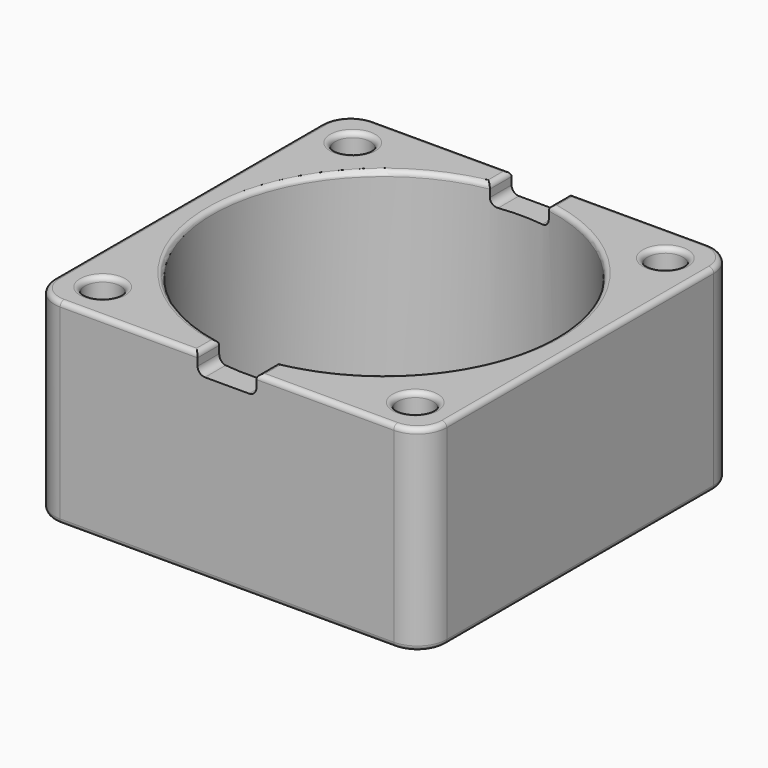
from build123d import *

# Parameters (mm, degrees)
SKETCH008_W     = 40
SKETCH008_H     = 40
SKETCH008_R     = 1.8
SKETCH008_R_2   = 17.5
PAD006_DEPTH    = 20
SKETCH011_W     = 6
SKETCH011_H     = 42
POCKET002_DEPTH = 2
FILLET002_R     = 3
FILLET003_R     = 0.5
FILLET004_R     = 0.75


with BuildPart() as part:
    # Sketch008 → Pad006 (new body)
    with BuildSketch(Plane.XY):
        Rectangle(SKETCH008_W, SKETCH008_H)
        with Locations((-15.92758, 15.92758)):
            Circle(SKETCH008_R, mode=Mode.SUBTRACT)
        with Locations((15.92758, -15.92758)):
            Circle(SKETCH008_R, mode=Mode.SUBTRACT)
        with Locations((15.92758, 15.92758)):
            Circle(SKETCH008_R, mode=Mode.SUBTRACT)
        with Locations((-15.92758, -15.92758)):
            Circle(SKETCH008_R, mode=Mode.SUBTRACT)
        Circle(SKETCH008_R_2, mode=Mode.SUBTRACT)
    extrude(amount=-PAD006_DEPTH)

    # Sketch011 → Pocket002 (cut)
    with BuildSketch(Plane.XY):
        Rectangle(SKETCH011_W, SKETCH011_H)
    extrude(amount=-POCKET002_DEPTH, mode=Mode.SUBTRACT)

    # Fillet002
    fillet002_edges = [part.edges().sort_by_distance(p)[0] for p in [
        (-20, -20, -10),
        (-20, 20, -10),
        (20, -20, -10),
        (20, 20, -10),
    ]]
    fillet(fillet002_edges, radius=FILLET002_R)

    # Fillet003
    fillet003_edges = [part.edges().sort_by_distance(p)[0] for p in [
        (-20, 0, -20),
        (-19.12132, -19.12132, -20),
        (-19.12132, 19.12132, -20),
        (0, -20, -20),
        (0, 20, -20),
        (19.12132, -19.12132, -20),
        (19.12132, 19.12132, -20),
        (20, 0, -20),
        (-17.5, 0, -20),
        (-17.72758, -15.92758, -20),
        (14.12758, -15.92758, -20),
        (14.12758, 15.92758, -20),
        (-17.72758, 15.92758, -20),
        (-20, 0, 0),
        (-19.12132, -19.12132, 0),
        (-19.12132, 19.12132, 0),
        (-10, -20, 0),
        (-10, 20, 0),
        (-3, -18.62047, 0),
        (-3, 18.62047, 0),
        (-17.5, 0, 0),
        (-17.72758, -15.92758, 0),
        (-17.72758, 15.92758, 0),
        (10, 20, 0),
        (19.12132, 19.12132, 0),
        (3, 18.62047, 0),
        (20, 0, 0),
        (13.393095, 11.26388, 0),
        (19.12132, -19.12132, 0),
        (13.393095, -11.26388, 0),
        (10, -20, 0),
        (3, -18.62047, 0),
        (14.12758, -15.92758, 0),
        (14.12758, 15.92758, 0),
    ]]
    fillet(fillet003_edges, radius=FILLET003_R)

    # Fillet004
    fillet004_edges = [part.edges().sort_by_distance(p)[0] for p in [
        (3, -18.62047, -2),
        (-3, -18.62047, -2),
        (-3, 18.62047, -2),
        (3, 18.62047, -2),
    ]]
    fillet(fillet004_edges, radius=FILLET004_R)


solid = part.part
